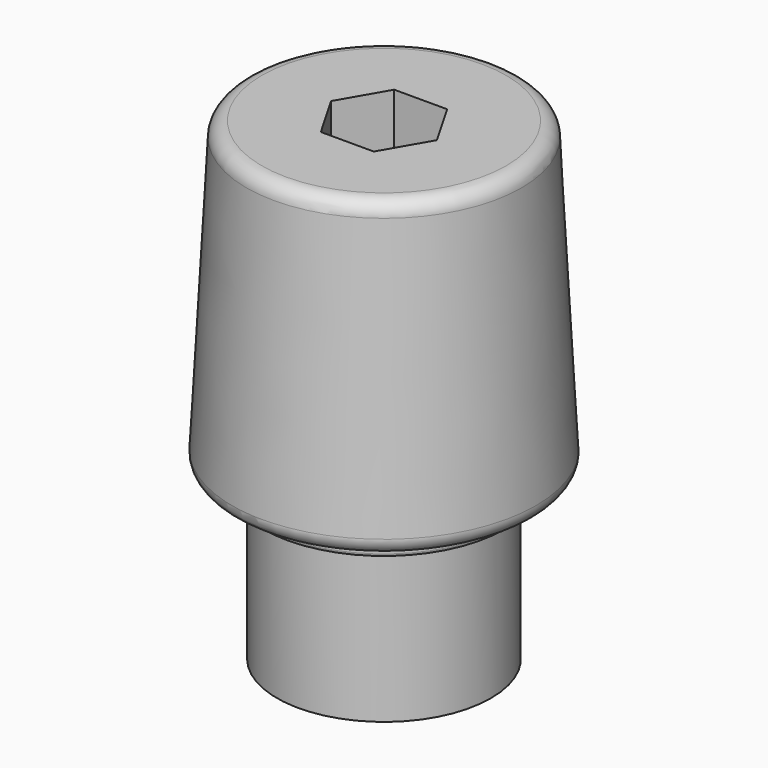
from build123d import *

# Parameters (mm, degrees)
F0_R      = 12.7
F1_DEPTH  = 25.4
F1_TAPER  = 3
F3_DEPTH  = 5.08
F4_R      = 1.27
F5_R      = 1.27
F7_R      = 10.16
F8_DEPTH  = 1.27
F9_R      = 0.254
F10_R     = 8.89
F11_DEPTH = 12.7


with BuildPart() as f1:
    # F0 (on Top) → F1 (new body)
    with BuildSketch(Plane.XY):
        Circle(F0_R)
    extrude(amount=F1_DEPTH, taper=F1_TAPER)

    # F2 (on face) → F3 (cut)
    with BuildSketch(Plane.XY.offset(25.4)):
        Polygon((2.1997045256, 3.81), (-2.1997045256, 3.81), (-4.3994090512, 0), (-2.1997045256, -3.81), (2.1997045256, -3.81), (4.3994090512, 0), align=None)
    extrude(amount=-F3_DEPTH, mode=Mode.SUBTRACT)

    # F4
    f4_edges = [f1.edges().sort_by_distance(p)[0] for p in [
        (-11.368842, 0, 25.4),
    ]]
    fillet(f4_edges, radius=F4_R)

    # F5
    f5_edges = [f1.edges().sort_by_distance(p)[0] for p in [
        (-12.7, 0, 0),
    ]]
    fillet(f5_edges, radius=F5_R)

    # F7 (on face) → F8 (join)
    with BuildSketch(Plane(origin=(0, 0, 0), x_dir=(1, 0, 0), z_dir=(0, 0, -1))):
        Circle(F7_R)
    extrude(amount=F8_DEPTH)

    # F9
    f9_edges = [f1.edges().sort_by_distance(p)[0] for p in [
        (-10.16, 0, -1.27),
    ]]
    fillet(f9_edges, radius=F9_R)

    # F10 (on face) → F11 (join)
    with BuildSketch(Plane(origin=(0, 0, -1.27), x_dir=(1, 0, 0), z_dir=(0, 0, -1))):
        Circle(F10_R)
    extrude(amount=F11_DEPTH)


solid = f1.part
